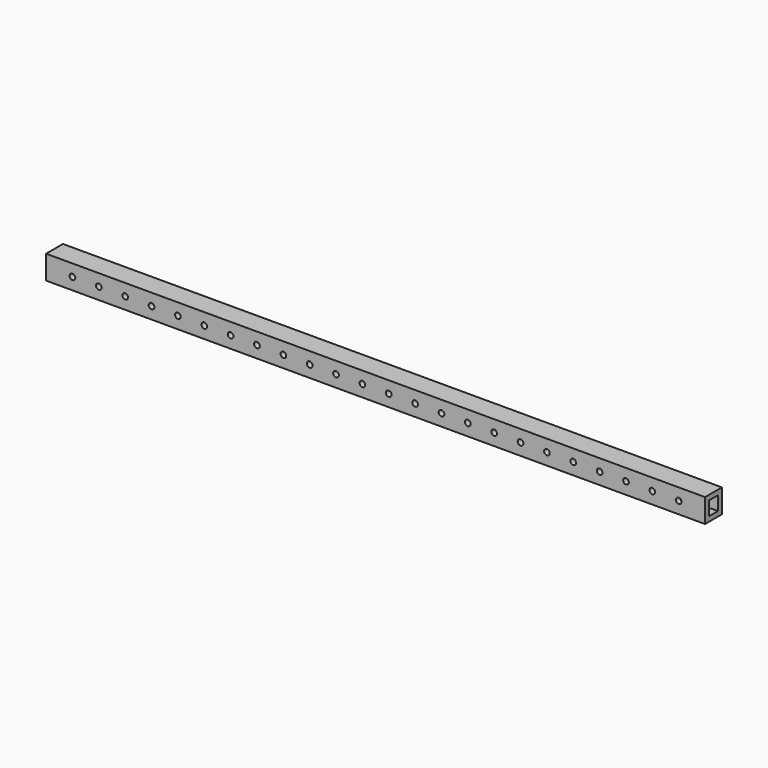
from build123d import *

# Parameters (mm, degrees)
F0_W     = 250
F0_H     = 9
F0_R     = 1.075
F1_DEPTH = 8
F2_W     = 4.2
F2_H     = 5.3
F3_DEPTH = 12
F4_W     = 2.1
F4_H     = 4
F5_DEPTH = 4.5


with BuildPart() as f1:
    # F0 (on Front) → F1 (new body)
    with BuildSketch(Plane.XZ):
        with Locations((125, 4.5)):
            Rectangle(F0_W, F0_H)
        with Locations((10, 4.5)):
            Circle(F0_R, mode=Mode.SUBTRACT)
        with Locations((20, 4.5)):
            Circle(F0_R, mode=Mode.SUBTRACT)
        with Locations((30, 4.5)):
            Circle(F0_R, mode=Mode.SUBTRACT)
        with Locations((40, 4.5)):
            Circle(F0_R, mode=Mode.SUBTRACT)
        with Locations((50, 4.5)):
            Circle(F0_R, mode=Mode.SUBTRACT)
        with Locations((60, 4.5)):
            Circle(F0_R, mode=Mode.SUBTRACT)
        with Locations((70, 4.5)):
            Circle(F0_R, mode=Mode.SUBTRACT)
        with Locations((80, 4.5)):
            Circle(F0_R, mode=Mode.SUBTRACT)
        with Locations((90, 4.5)):
            Circle(F0_R, mode=Mode.SUBTRACT)
        with Locations((100, 4.5)):
            Circle(F0_R, mode=Mode.SUBTRACT)
        with Locations((110, 4.5)):
            Circle(F0_R, mode=Mode.SUBTRACT)
        with Locations((120, 4.5)):
            Circle(F0_R, mode=Mode.SUBTRACT)
        with Locations((130, 4.5)):
            Circle(F0_R, mode=Mode.SUBTRACT)
        with Locations((140, 4.5)):
            Circle(F0_R, mode=Mode.SUBTRACT)
        with Locations((150, 4.5)):
            Circle(F0_R, mode=Mode.SUBTRACT)
        with Locations((160, 4.5)):
            Circle(F0_R, mode=Mode.SUBTRACT)
        with Locations((170, 4.5)):
            Circle(F0_R, mode=Mode.SUBTRACT)
        with Locations((180, 4.5)):
            Circle(F0_R, mode=Mode.SUBTRACT)
        with Locations((190, 4.5)):
            Circle(F0_R, mode=Mode.SUBTRACT)
        with Locations((200, 4.5)):
            Circle(F0_R, mode=Mode.SUBTRACT)
        with Locations((210, 4.5)):
            Circle(F0_R, mode=Mode.SUBTRACT)
        with Locations((220, 4.5)):
            Circle(F0_R, mode=Mode.SUBTRACT)
        with Locations((230, 4.5)):
            Circle(F0_R, mode=Mode.SUBTRACT)
        with Locations((240, 4.5)):
            Circle(F0_R, mode=Mode.SUBTRACT)
    extrude(amount=F1_DEPTH)

    # F2 (on face) → F3 (cut)
    with BuildSketch(Plane.YZ.offset(250)):
        with Locations((-4, 4.5)):
            Rectangle(F2_W, F2_H)
    extrude(amount=-F3_DEPTH, mode=Mode.SUBTRACT)

    # F4 (on face) → F5 (cut)
    with BuildSketch(Plane(origin=(0, 0, 0), x_dir=(-1, 0, 0), z_dir=(0, 1, 0))):
        with Locations((-15.05, 4.5)):
            Rectangle(F4_W, F4_H)
        with Locations((-45.05, 4.5)):
            Rectangle(F4_W, F4_H)
        with Locations((-75.05, 4.5)):
            Rectangle(F4_W, F4_H)
        with Locations((-105.05, 4.5)):
            Rectangle(F4_W, F4_H)
        with Locations((-135.05, 4.5)):
            Rectangle(F4_W, F4_H)
        with Locations((-165.05, 4.5)):
            Rectangle(F4_W, F4_H)
        with Locations((-195.05, 4.5)):
            Rectangle(F4_W, F4_H)
        with Locations((-225.05, 4.5)):
            Rectangle(F4_W, F4_H)
    extrude(amount=-F5_DEPTH, mode=Mode.SUBTRACT)


solid = f1.part
